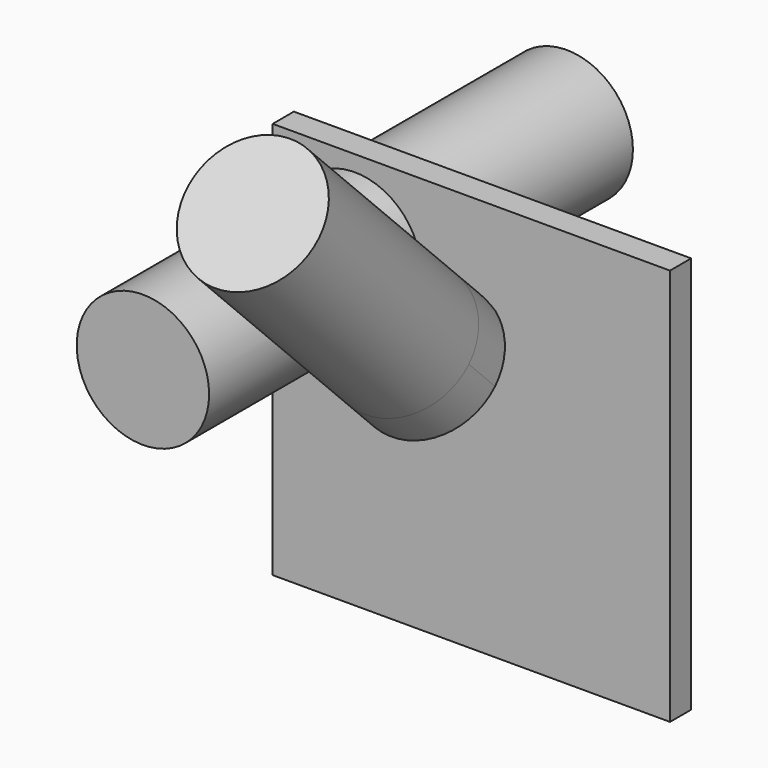
from build123d import *

# Parameters (mm, degrees)
F0_W          = 300
F0_H          = 300
F1_DEPTH      = 20
F2_R          = 50
F3_DEPTH      = 200
F3_DEPTH_BACK = 200
F5_R          = 50
F6_DEPTH      = 200
F6_DEPTH_BACK = 35


with BuildPart() as f1:
    # F0 (on Front) → F1 (new body)
    with BuildSketch(Plane.XZ):
        with Locations((7.894735, 0)):
            Rectangle(F0_W, F0_H)
    extrude(amount=F1_DEPTH)

    # F2 (on face) → F3 (join, two sides)
    with BuildSketch(Plane.XZ.offset(20)) as f3_sk:
        with Locations((-80.105265, 88)):
            Circle(F2_R)
    extrude(amount=F3_DEPTH)
    extrude(f3_sk.sketch, amount=-F3_DEPTH_BACK)

    # F5 (on face) → F6 (join, two sides)
    with BuildSketch(Plane(origin=(0, -75, 75), x_dir=(1, 0, 0), z_dir=(0, -0.707107, 0.707107))) as f6_sk:
        Circle(F5_R)
    extrude(amount=F6_DEPTH)
    extrude(f6_sk.sketch, amount=-F6_DEPTH_BACK)


solid = f1.part
